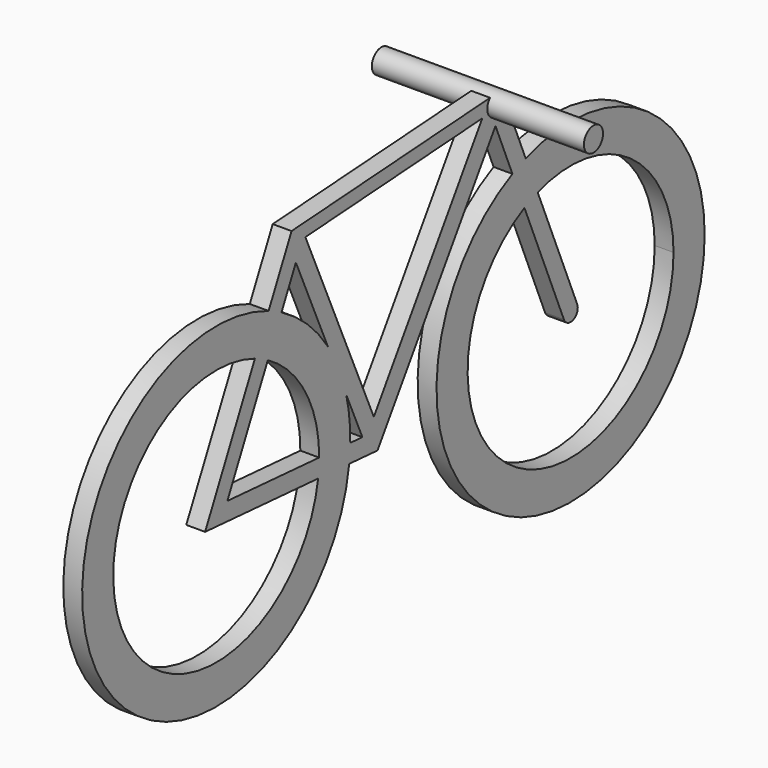
from build123d import *

# Parameters (mm, degrees)
F3_DEPTH = 20
F1_R     = 355.6
F1_R_2   = 273.05
F4_DEPTH = 20
F5_R     = 25.4
F6_DEPTH = 225


with BuildPart() as f3:
    # F2 (on Right) → F3 (new body, symmetric)
    with BuildSketch(Plane.YZ):
        with BuildLine():
            Line((539.424256, 38.240109), (338.68509, 519.698787))
            Line((338.68509, 519.698787), (-218.144057, 482.688492))
            Line((-218.144057, 482.688492), (-447.444623, 13.987639))
            Line((-447.444623, 13.987639), (9.804998, -19.827125))
            Line((9.804998, -19.827125), (322.617488, 459.231032))
            Line((322.617488, 459.231032), (504.258433, 23.578087))
            ThreePointArc((504.258433, 23.578087), (529.172356, 13.326186), (539.424256, 38.240109))
        make_face()
        Polygon((-388.472688, 47.830557), (-206.728306, 419.324393), (-30.299405, 21.342738), align=None, mode=Mode.SUBTRACT)
        Polygon((0, 47.005516), (-181.525694, 456.484325), (287.745681, 487.674991), align=None, mode=Mode.SUBTRACT)
    extrude(amount=F3_DEPTH, both=True)

    # F1 (on Right) → F4 (join, symmetric)
    with BuildSketch(Plane.YZ):
        with Locations((-417.958655, 30.909098)):
            Circle(F1_R)
        with Locations((-417.958655, 30.909098)):
            Circle(F1_R_2, mode=Mode.SUBTRACT)
        with Locations((521.841345, 30.909098)):
            Circle(F1_R)
        with Locations((521.841345, 30.909098)):
            Circle(F1_R_2, mode=Mode.SUBTRACT)
    extrude(amount=F4_DEPTH, both=True)

    # F5 (on Right) → F6 (join, symmetric)
    with BuildSketch(Plane.YZ):
        with Locations((326.347711, 499.786736)):
            Circle(F5_R)
    extrude(amount=F6_DEPTH, both=True)


solid = f3.part
